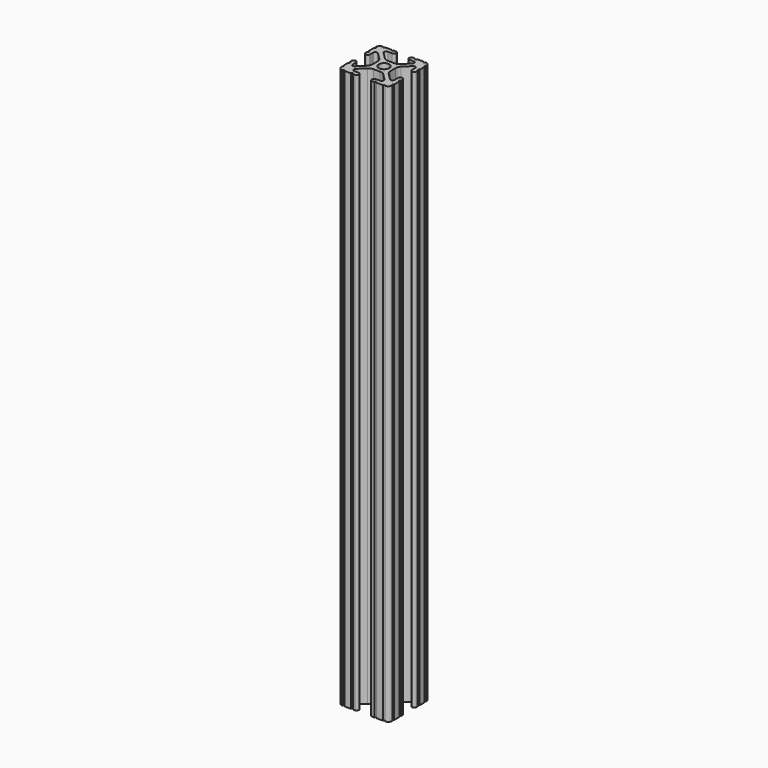
from build123d import *

# Parameters (mm, degrees)
SKETCH097_R   = 2.6035
EXTRUDE_DEPTH = 279.4


with BuildPart() as part:
    # Sketch097 → Extrude (new body)
    with BuildSketch(Plane.XY):
        with BuildLine():
            ThreePointArc((12.7, 6.333084), (12.192, 5.825084), (12.7, 5.317084))
            Line((12.7, 4.287469), (12.7, 5.317084))
            ThreePointArc((11.650988, 3.238457), (12.392751, 3.545706), (12.7, 4.287469))
            Line((11.539212, 3.238457), (11.650988, 3.238457))
            ThreePointArc((10.4902, 4.287469), (10.797449, 3.545706), (11.539212, 3.238457))
            Line((10.4902, 6.402089), (10.4902, 4.287469))
            ThreePointArc((10.4902, 6.402089), (9.856505, 7.351068), (8.737131, 7.129409))
            Line((5.441006, 3.840816), (8.737131, 7.129409))
            ThreePointArc((5.441006, 3.840816), (4.750878, 2.809883), (4.5085, 1.593186))
            Line((4.5085, -1.593186), (4.5085, 1.593186))
            ThreePointArc((4.5085, -1.593186), (4.750878, -2.809883), (5.441006, -3.840816))
            Line((8.737131, -7.129409), (5.441006, -3.840816))
            ThreePointArc((8.737131, -7.129409), (9.856505, -7.351068), (10.4902, -6.402089))
            Line((10.4902, -4.287469), (10.4902, -6.402089))
            ThreePointArc((11.539212, -3.238457), (10.797449, -3.545706), (10.4902, -4.287469))
            Line((11.650988, -3.238457), (11.539212, -3.238457))
            ThreePointArc((12.7, -4.287469), (12.392751, -3.545706), (11.650988, -3.238457))
            Line((12.7, -5.317084), (12.7, -4.287469))
            ThreePointArc((12.7, -5.317084), (12.192, -5.825084), (12.7, -6.333084))
            Line((12.7, -9.5504), (12.7, -6.333084))
            ThreePointArc((12.7, -9.5504), (12.192, -10.058323), (12.699847, -10.5664))
            ThreePointArc((10.566443, -12.699848), (12.082538, -12.082507), (12.699847, -10.5664))
            ThreePointArc((10.566443, -12.699848), (10.058367, -12.192), (9.550443, -12.7))
            Line((6.333127, -12.7), (9.550443, -12.7))
            ThreePointArc((6.333127, -12.7), (5.825127, -12.192), (5.317127, -12.7))
            Line((4.287512, -12.7), (5.317127, -12.7))
            ThreePointArc((3.2385, -11.650988), (3.545749, -12.392751), (4.287512, -12.7))
            Line((3.2385, -11.539212), (3.2385, -11.650988))
            ThreePointArc((4.287512, -10.4902), (3.545749, -10.797449), (3.2385, -11.539212))
            Line((6.416408, -10.4902), (4.287512, -10.4902))
            ThreePointArc((6.416408, -10.4902), (7.414731, -9.822813), (7.17965, -8.645193))
            Line((3.95227, -5.42369), (7.17965, -8.645193))
            ThreePointArc((3.95227, -5.42369), (2.922936, -4.736929), (1.709254, -4.4958))
            Line((-1.709254, -4.4958), (1.709254, -4.4958))
            ThreePointArc((-1.709254, -4.4958), (-2.922936, -4.736929), (-3.95227, -5.42369))
            Line((-7.17965, -8.645193), (-3.95227, -5.42369))
            ThreePointArc((-7.17965, -8.645193), (-7.414731, -9.822813), (-6.416408, -10.4902))
            Line((-4.287512, -10.4902), (-6.416408, -10.4902))
            ThreePointArc((-3.2385, -11.539212), (-3.545749, -10.797449), (-4.287512, -10.4902))
            Line((-3.2385, -11.650988), (-3.2385, -11.539212))
            ThreePointArc((-4.287512, -12.7), (-3.545749, -12.392751), (-3.2385, -11.650988))
            Line((-5.317127, -12.7), (-4.287512, -12.7))
            ThreePointArc((-5.317127, -12.7), (-5.825127, -12.192), (-6.333127, -12.7))
            Line((-9.550443, -12.7), (-6.333127, -12.7))
            ThreePointArc((-9.550443, -12.7), (-10.058367, -12.192), (-10.566443, -12.699848))
            ThreePointArc((-12.699847, -10.5664), (-12.082538, -12.082507), (-10.566443, -12.699848))
            ThreePointArc((-12.699847, -10.5664), (-12.192, -10.058323), (-12.7, -9.5504))
            Line((-12.7, -6.333084), (-12.7, -9.5504))
            ThreePointArc((-12.7, -6.333084), (-12.192, -5.825084), (-12.7, -5.317084))
            Line((-12.7, -4.287469), (-12.7, -5.317084))
            ThreePointArc((-11.650988, -3.238457), (-12.392751, -3.545706), (-12.7, -4.287469))
            Line((-11.539212, -3.238457), (-11.650988, -3.238457))
            ThreePointArc((-10.4902, -4.287469), (-10.797449, -3.545706), (-11.539212, -3.238457))
            Line((-10.4902, -6.402089), (-10.4902, -4.287469))
            ThreePointArc((-10.4902, -6.402089), (-9.856505, -7.351068), (-8.737131, -7.129409))
            Line((-5.441006, -3.840816), (-8.737131, -7.129409))
            ThreePointArc((-5.441006, -3.840816), (-4.750878, -2.809883), (-4.5085, -1.593186))
            Line((-4.5085, 1.593186), (-4.5085, -1.593186))
            ThreePointArc((-4.5085, 1.593186), (-4.750878, 2.809883), (-5.441006, 3.840816))
            Line((-8.737131, 7.129409), (-5.441006, 3.840816))
            ThreePointArc((-8.737131, 7.129409), (-9.856505, 7.351068), (-10.4902, 6.402089))
            Line((-10.4902, 4.287469), (-10.4902, 6.402089))
            ThreePointArc((-11.539212, 3.238457), (-10.797449, 3.545706), (-10.4902, 4.287469))
            Line((-11.650988, 3.238457), (-11.539212, 3.238457))
            ThreePointArc((-12.7, 4.287469), (-12.392751, 3.545706), (-11.650988, 3.238457))
            Line((-12.7, 5.317084), (-12.7, 4.287469))
            ThreePointArc((-12.7, 5.317084), (-12.192, 5.825084), (-12.7, 6.333084))
            Line((-12.7, 9.5504), (-12.7, 6.333084))
            ThreePointArc((-12.7, 9.5504), (-12.192, 10.058323), (-12.699847, 10.5664))
            ThreePointArc((-10.566443, 12.699848), (-12.082538, 12.082507), (-12.699847, 10.5664))
            ThreePointArc((-10.566443, 12.699848), (-10.058367, 12.192), (-9.550443, 12.7))
            Line((-6.333127, 12.7), (-9.550443, 12.7))
            ThreePointArc((-6.333127, 12.7), (-5.825127, 12.192), (-5.317127, 12.7))
            Line((-4.287512, 12.7), (-5.317127, 12.7))
            ThreePointArc((-3.2385, 11.650988), (-3.545749, 12.392751), (-4.287512, 12.7))
            Line((-3.2385, 11.539212), (-3.2385, 11.650988))
            ThreePointArc((-4.287512, 10.4902), (-3.545749, 10.797449), (-3.2385, 11.539212))
            Line((-6.476789, 10.4902), (-4.287512, 10.4902))
            ThreePointArc((-6.476789, 10.4902), (-7.432222, 9.851404), (-7.207036, 8.724371))
            Line((-3.898273, 5.423169), (-7.207036, 8.724371))
            ThreePointArc((-3.898273, 5.423169), (-2.86912, 4.736788), (-1.655778, 4.4958))
            Line((1.655778, 4.4958), (-1.655778, 4.4958))
            ThreePointArc((1.655778, 4.4958), (2.86912, 4.736788), (3.898273, 5.423169))
            Line((7.207036, 8.724371), (3.898273, 5.423169))
            ThreePointArc((7.207036, 8.724371), (7.432222, 9.851404), (6.476789, 10.4902))
            Line((4.287512, 10.4902), (6.476789, 10.4902))
            ThreePointArc((3.2385, 11.539212), (3.545749, 10.797449), (4.287512, 10.4902))
            Line((3.2385, 11.650988), (3.2385, 11.539212))
            ThreePointArc((4.287512, 12.7), (3.545749, 12.392751), (3.2385, 11.650988))
            Line((5.317127, 12.7), (4.287512, 12.7))
            ThreePointArc((5.317127, 12.7), (5.825127, 12.192), (6.333127, 12.7))
            Line((9.550443, 12.7), (6.333127, 12.7))
            ThreePointArc((9.550443, 12.7), (10.058367, 12.192), (10.566443, 12.699848))
            ThreePointArc((12.699847, 10.5664), (12.082538, 12.082507), (10.566443, 12.699848))
            ThreePointArc((12.699847, 10.5664), (12.192, 10.058323), (12.7, 9.5504))
            Line((12.7, 6.333084), (12.7, 9.5504))
        make_face()
        Circle(SKETCH097_R, mode=Mode.SUBTRACT)
    extrude(amount=EXTRUDE_DEPTH)


solid = part.part
